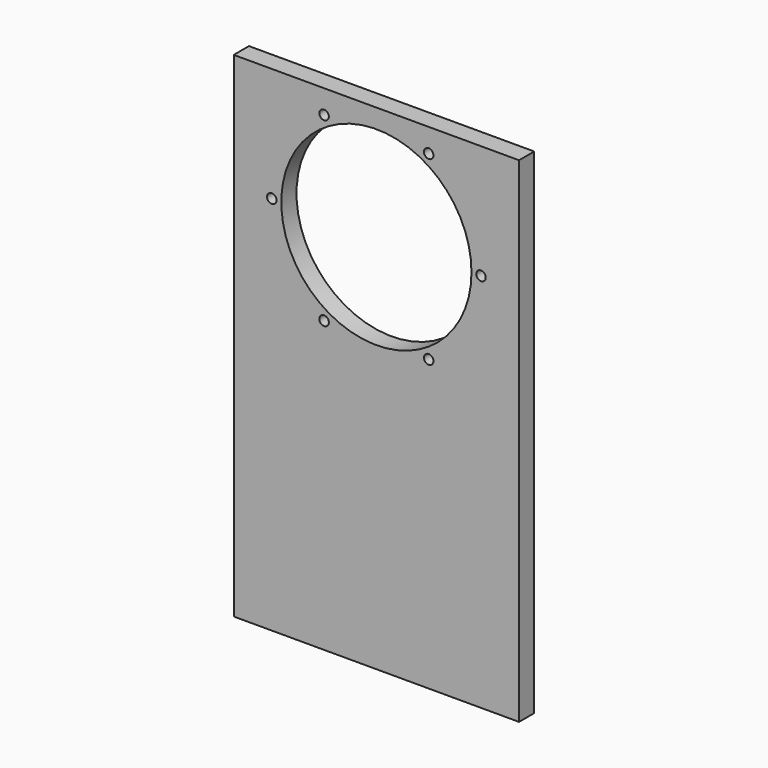
from build123d import *

# Parameters (mm, degrees)
F0_W     = 150
F0_H     = 260
F0_R     = 50
F1_DEPTH = 10
F3_D     = 5


with BuildPart() as f1:
    # F0 (on Front) → F1 (new body)
    with BuildSketch(Plane.XZ):
        with Locations((0, 130)):
            Rectangle(F0_W, F0_H)
        with Locations((0, 200)):
            Circle(F0_R, mode=Mode.SUBTRACT)
    extrude(amount=F1_DEPTH)

    # F3 (through all)
    with Locations(Plane.XZ.offset(10)):
        with Locations((-27.5, 247.6313972081), (27.5, 247.6313972081), (55, 200), (27.5, 152.3686027919), (-27.5, 152.3686027919), (-55, 200)):
            Hole(F3_D / 2)


solid = f1.part
